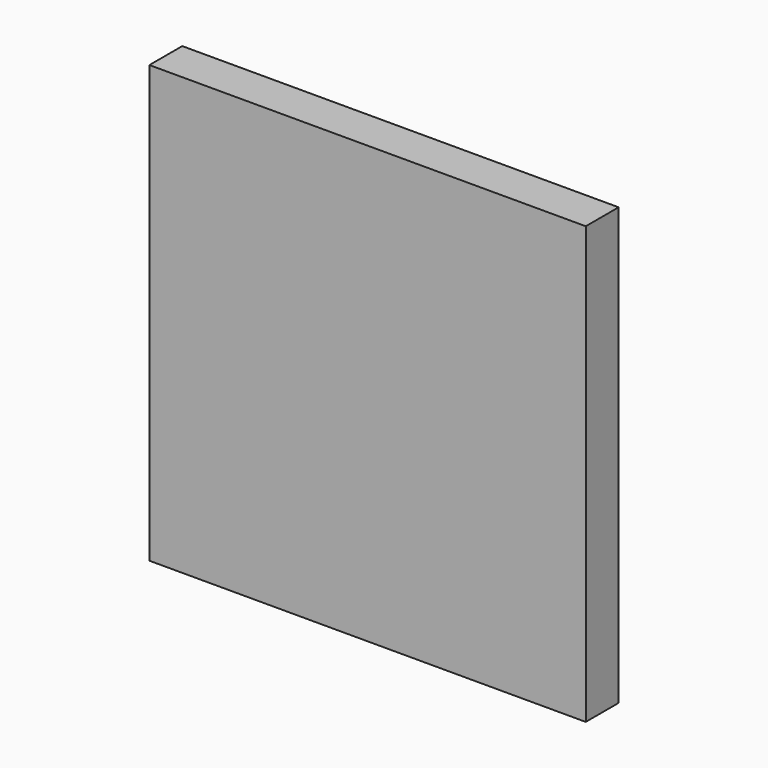
from build123d import *

# Parameters (mm, degrees)
F0_W     = 85
F0_H     = 85
F0_R     = 4
F0_R_2   = 2.5
F3_DEPTH = 8


with BuildPart() as f3:
    # F0 (on Front) → F3 (new body)
    with BuildSketch(Plane.XZ):
        Rectangle(F0_W, F0_H)
        with Locations((-30, 0)):
            Circle(F0_R, mode=Mode.SUBTRACT)
        with Locations((30, 0)):
            Circle(F0_R, mode=Mode.SUBTRACT)
        with Locations((30, 0)):
            Circle(F0_R)
        with Locations((30, 0)):
            Circle(F0_R_2, mode=Mode.SUBTRACT)
        with Locations((30, 0)):
            Circle(F0_R_2)
        with Locations((-30, 0)):
            Circle(F0_R)
        with Locations((-30, 0)):
            Circle(F0_R_2, mode=Mode.SUBTRACT)
        with Locations((-30, 0)):
            Circle(F0_R_2)
    extrude(amount=-F3_DEPTH)


solid = f3.part
